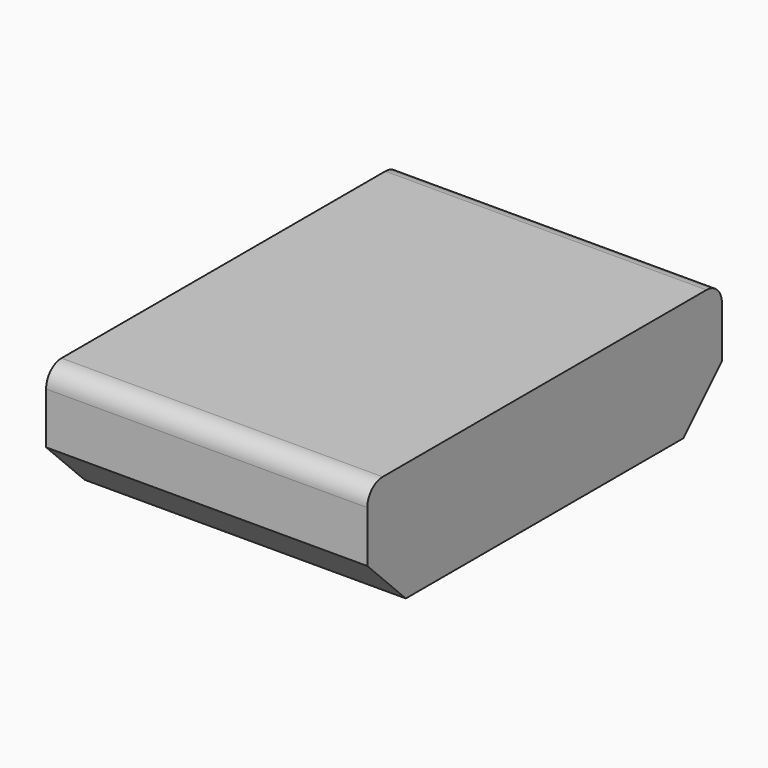
from build123d import *

# Parameters (mm, degrees)
PAD001_DEPTH = 5
FILLET_R     = 0.3
FILLET001_R  = 0.3


with BuildPart() as part:
    # Sketch002 → Pad001 (new body)
    with BuildSketch(Plane.YZ.offset(29.3)):
        Polygon((5.9, 3.5), (12.8, 3.5), (12.8, 2.4), (12.05, 1.65), (6.65, 1.65), (5.9, 2.4), align=None)
    extrude(amount=PAD001_DEPTH)

    # Fillet
    fillet_edges = [part.edges().sort_by_distance(p)[0] for p in [
        (31.8, 5.9, 3.5),
    ]]
    fillet(fillet_edges, radius=FILLET_R)

    # Fillet001
    fillet001_edges = [part.edges().sort_by_distance(p)[0] for p in [
        (31.8, 12.8, 3.5),
    ]]
    fillet(fillet001_edges, radius=FILLET001_R)


solid = part.part
